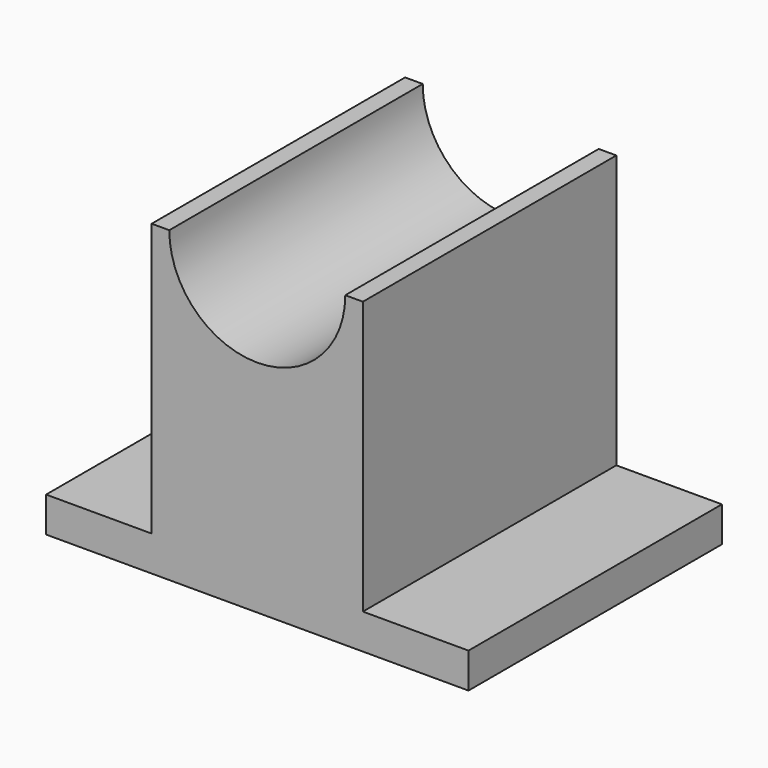
from build123d import *

# Parameters (mm, degrees)
F1_DEPTH = 114.3
F3_DEPTH = 114.301


with BuildPart() as f1:
    # F0 (on Front) → F1 (new body)
    with BuildSketch(Plane.XZ):
        Polygon((0, 12.7), (0, 0), (152.4, 0), (152.4, 12.7), (114.3, 12.7), (114.3, 111.125), (38.1, 111.125), (38.1, 12.7), align=None)
    extrude(amount=F1_DEPTH)

    # F2 (on face) → F3 (cut, through all)
    with BuildSketch(Plane.XZ.offset(114.3)):
        with BuildLine():
            Line((107.95, 111.125), (44.45, 111.125))
            ThreePointArc((44.45, 111.125), (76.2, 79.375), (107.95, 111.125))
        make_face()
    extrude(amount=-F3_DEPTH, mode=Mode.SUBTRACT)


solid = f1.part
